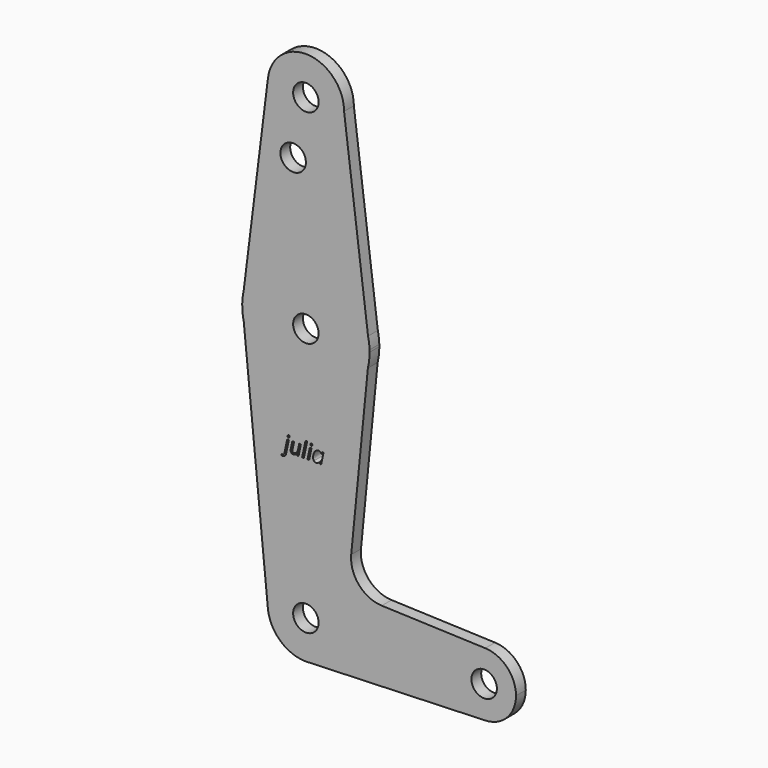
from build123d import *

# Parameters (mm, degrees)
F0_R     = 3.175
F1_DEPTH = 3.048
F2_DEPTH = 3.048


with BuildPart() as f1:
    # F0 (on Front) → F1 (new body)
    with BuildSketch(Plane.XZ):
        with BuildLine():
            ThreePointArc((-9.4520848782, 115.4749578639), (-0.5892862359, 104.7918893431), (9.525, 114.2986430863))
            ThreePointArc((9.525, 114.2986430863), (0.5892862359, 123.8053968294), (-9.4520848782, 115.4749578639))
        make_face()
        with Locations((0, 114.2986430863)):
            Circle(F0_R, mode=Mode.SUBTRACT)
        with BuildLine():
            Line((15.5005772781, 66.9261391177), (9.525, 114.2986430863))
            ThreePointArc((9.525, 114.2986430863), (-0.5892862359, 104.7918893431), (-9.4520848782, 115.4749578639))
            Line((-9.4520848782, 115.4749578639), (-15.4857249729, 66.9926303591))
            ThreePointArc((-15.4857249729, 66.9926303591), (0.0340649239, 79.3736065376), (15.5005772781, 66.9261391177))
        make_face()
        with Locations((-3.175, 100.0238430863)):
            Circle(F0_R, mode=Mode.SUBTRACT)
        with BuildLine():
            Line((15.8661798911, 64.0277561788), (15.5005772781, 66.9261391177))
            ThreePointArc((15.5005772781, 66.9261391177), (0.0340649239, 79.3736065376), (-15.4857249729, 66.9926303591))
            Line((-15.4857249729, 66.9926303591), (-15.8697507468, 63.9068541036))
            Line((-15.8697507468, 63.9068541036), (-15.484392146, 59.9987538209))
            ThreePointArc((-15.484392146, 59.9987538209), (-0.0559732082, 47.6237417637), (15.4593269838, 59.8896495689))
            Line((15.4593269838, 59.8896495689), (15.8661798911, 64.0277561788))
        make_face()
        with Locations((0, 63.4986430863)):
            Circle(F0_R, mode=Mode.SUBTRACT)
        with BuildLine():
            ThreePointArc((15.8661798911, 64.0277561788), (15.7501911018, 65.4853753927), (15.5005772781, 66.9261391177))
            Line((15.5005772781, 66.9261391177), (15.8661798911, 64.0277561788))
        make_face()
        with BuildLine():
            Line((-15.8697507468, 63.9068541036), (-15.4857249729, 66.9926303591))
            ThreePointArc((-15.4857249729, 66.9926303591), (-15.7534747969, 65.4591677157), (-15.8697507468, 63.9068541036))
        make_face()
        with BuildLine():
            ThreePointArc((15.875, 63.4986430863), (15.8727948196, 63.7632363869), (15.8661798911, 64.0277561788))
            Line((15.8661798911, 64.0277561788), (15.4593269838, 59.8896495689))
            ThreePointArc((15.4593269838, 59.8896495689), (15.770739375, 61.682216769), (15.875, 63.4986430863))
        make_face()
        with BuildLine():
            Line((-15.484392146, 59.9987538209), (-15.8697507468, 63.9068541036))
            ThreePointArc((-15.8697507468, 63.9068541036), (-15.7983822301, 61.9408421008), (-15.484392146, 59.9987538209))
        make_face()
        with BuildLine():
            Line((11.3012341919, 17.597629629), (15.4593269838, 59.8896495689))
            ThreePointArc((15.4593269838, 59.8896495689), (-0.0559732082, 47.6237417637), (-15.484392146, 59.9987538209))
            Line((-15.484392146, 59.9987538209), (-9.4997976526, -0.6937943191))
            ThreePointArc((-9.4997976526, -0.6937943191), (-0.3464479466, 9.5173404142), (9.525, -0.0013569137))
            ThreePointArc((9.525, -0.0013569137), (6.9705567315, -6.492656002), (0.6773435479, -9.5022426997))
            Line((0.6773435479, -9.5022426997), (44.7324052746, -7.9338315283))
            ThreePointArc((44.7324052746, -7.9338315283), (36.5125009184, 0.0024613389), (44.7400368134, 7.9308423334))
            Line((44.7400368134, 7.9308423334), (18.9227841733, 8.8748369877))
            ThreePointArc((18.9227841733, 8.8748369877), (13.2264460157, 11.5887203488), (11.3012341919, 17.597629629))
        make_face()
        with BuildLine():
            add(Edge.make_bspline(
                [(-5.2078049347, 33.8977516229), (-5.4072458297, 33.6958735683), (-5.7500729486, 33.6958735683)],
                knots=[0, 0, 0, 1, 1, 1], degree=2))
            add(Edge.make_bspline(
                [(-5.7500729486, 33.6958735683), (-5.9255484408, 33.6958735683), (-6.0620293791, 33.7494910798)],
                knots=[0, 0, 0, 1, 1, 1], degree=2))
            Line((-6.0620293791, 33.7494910798), (-6.0620293791, 34.1077535429))
            add(Edge.make_bspline(
                [(-6.0620293791, 34.1077535429), (-5.9076759369, 34.0516988718), (-5.7598215871, 34.0516988718)],
                knots=[0, 0, 0, 1, 1, 1], degree=2))
            add(Edge.make_bspline(
                [(-5.7598215871, 34.0516988718), (-5.4429908374, 34.0516988718), (-5.3333186548, 34.5724386425)],
                knots=[0, 0, 0, 1, 1, 1], degree=2))
            Line((-5.3333186548, 34.5724386425), (-4.6630997612, 37.7277479549))
            Line((-4.6630997612, 37.7277479549), (-4.2422835346, 37.7277479549))
            Line((-4.2422835346, 37.7277479549), (-4.9173767475, 34.5342564752))
            add(Edge.make_bspline(
                [(-4.9173767475, 34.5342564752), (-5.0083640397, 34.0996296776), (-5.2078049347, 33.8977516229)],
                knots=[0, 0, 0, 1, 1, 1], degree=2))
        make_face(mode=Mode.SUBTRACT)
        with BuildLine():
            add(Edge.make_bspline(
                [(-4.4778756306, 38.2618921034), (-4.5436789401, 38.3240396736), (-4.5436789401, 38.4385861754)],
                knots=[0, 0, 0, 1, 1, 1], degree=2))
            add(Edge.make_bspline(
                [(-4.5436789401, 38.4385861754), (-4.5436789401, 38.5807538195), (-4.4624402864, 38.6709287252)],
                knots=[0, 0, 0, 1, 1, 1], degree=2))
            add(Edge.make_bspline(
                [(-4.4624402864, 38.6709287252), (-4.3812016326, 38.7611036309), (-4.2520321731, 38.7611036309)],
                knots=[0, 0, 0, 1, 1, 1], degree=2))
            add(Edge.make_bspline(
                [(-4.2520321731, 38.7611036309), (-4.0335001945, 38.7611036309), (-4.0335001945, 38.5328230138)],
                knots=[0, 0, 0, 1, 1, 1], degree=2))
            add(Edge.make_bspline(
                [(-4.0335001945, 38.5328230138), (-4.0335001945, 38.3930925293), (-4.1188007809, 38.2964185313)],
                knots=[0, 0, 0, 1, 1, 1], degree=2))
            add(Edge.make_bspline(
                [(-4.1188007809, 38.2964185313), (-4.2041013674, 38.1997445333), (-4.315398323, 38.1997445333)],
                knots=[0, 0, 0, 1, 1, 1], degree=2))
            add(Edge.make_bspline(
                [(-4.315398323, 38.1997445333), (-4.412072321, 38.1997445333), (-4.4778756306, 38.2618921034)],
                knots=[0, 0, 0, 1, 1, 1], degree=2))
        make_face(mode=Mode.SUBTRACT)
        with BuildLine():
            Line((-3.3738423259, 37.7277479549), (-2.9424650743, 37.7277479549))
            Line((-2.9424650743, 37.7277479549), (-3.322661974, 35.963244395))
            add(Edge.make_bspline(
                [(-3.322661974, 35.963244395), (-3.3689680066, 35.7374009376), (-3.3689680066, 35.6106686377)],
                knots=[0, 0, 0, 1, 1, 1], degree=2))
            add(Edge.make_bspline(
                [(-3.3689680066, 35.6106686377), (-3.3689680066, 35.2475318553), (-2.9952701993, 35.2475318553)],
                knots=[0, 0, 0, 1, 1, 1], degree=2))
            add(Edge.make_bspline(
                [(-2.9952701993, 35.2475318553), (-2.7718639014, 35.2475318553), (-2.5561752757, 35.3998543311)],
                knots=[0, 0, 0, 1, 1, 1], degree=2))
            add(Edge.make_bspline(
                [(-2.5561752757, 35.3998543311), (-2.3404866499, 35.552176807), (-2.1755721828, 35.8365120952)],
                knots=[0, 0, 0, 1, 1, 1], degree=2))
            add(Edge.make_bspline(
                [(-2.1755721828, 35.8365120952), (-2.0106577156, 36.1208473833), (-1.9237323561, 36.522166333)],
                knots=[0, 0, 0, 1, 1, 1], degree=2))
            Line((-1.9237323561, 36.522166333), (-1.6702677563, 37.7277479549))
            Line((-1.6702677563, 37.7277479549), (-1.2486391432, 37.7277479549))
            Line((-1.2486391432, 37.7277479549), (-1.8351822235, 34.9453240633))
            Line((-1.8351822235, 34.9453240633), (-2.1877579808, 34.9453240633))
            Line((-2.1877579808, 34.9453240633), (-2.1325156963, 35.4603771282))
            Line((-2.1325156963, 35.4603771282), (-2.1625739981, 35.4603771282))
            add(Edge.make_bspline(
                [(-2.1625739981, 35.4603771282), (-2.4111642787, 35.1435463785), (-2.6374139294, 35.018845045)],
                knots=[0, 0, 0, 1, 1, 1], degree=2))
            add(Edge.make_bspline(
                [(-2.6374139294, 35.018845045), (-2.8636635802, 34.8941437114), (-3.1049423819, 34.8941437114)],
                knots=[0, 0, 0, 1, 1, 1], degree=2))
            add(Edge.make_bspline(
                [(-3.1049423819, 34.8941437114), (-3.429896997, 34.8941437114), (-3.6151211275, 35.0708377834)],
                knots=[0, 0, 0, 1, 1, 1], degree=2))
            add(Edge.make_bspline(
                [(-3.6151211275, 35.0708377834), (-3.8003452581, 35.2475318553), (-3.8003452581, 35.57492363)],
                knots=[0, 0, 0, 1, 1, 1], degree=2))
            add(Edge.make_bspline(
                [(-3.8003452581, 35.57492363), (-3.8003452581, 35.7325266183), (-3.744290587, 36.0119875873)],
                knots=[0, 0, 0, 1, 1, 1], degree=2))
            Line((-3.744290587, 36.0119875873), (-3.3738423259, 37.7277479549))
        make_face(mode=Mode.SUBTRACT)
        Polygon((0.3282031264, 38.8959597961), (-0.5150540997, 34.9453240633), (-0.941557032, 34.9453240633), (-0.0982998059, 38.8959597961), align=None, mode=Mode.SUBTRACT)
        Polygon((1.4046152889, 37.7277479549), (0.8099483433, 34.9453240633), (0.383445411, 34.9453240633), (0.9781123566, 37.7277479549), align=None, mode=Mode.SUBTRACT)
        with BuildLine():
            add(Edge.make_bspline(
                [(2.480621258, 37.5222141609), (2.797858201, 37.7789283068), (3.1764303276, 37.7789283068)],
                knots=[0, 0, 0, 1, 1, 1], degree=2))
            add(Edge.make_bspline(
                [(3.1764303276, 37.7789283068), (3.4095852639, 37.7789283068), (3.5923722349, 37.6530083934)],
                knots=[0, 0, 0, 1, 1, 1], degree=2))
            add(Edge.make_bspline(
                [(3.5923722349, 37.6530083934), (3.7751592059, 37.5270884801), (3.8767075231, 37.2914963842)],
                knots=[0, 0, 0, 1, 1, 1], degree=2))
            Line((3.8767075231, 37.2914963842), (3.9051410519, 37.2914963842))
            Line((3.9051410519, 37.2914963842), (4.0749298383, 37.7277479549))
            Line((4.0749298383, 37.7277479549), (4.3974472937, 37.7277479549))
            Line((4.3974472937, 37.7277479549), (3.8060298943, 34.9453240633))
            Line((3.8060298943, 34.9453240633), (3.4680770946, 34.9453240633))
            Line((3.4680770946, 34.9453240633), (3.5346927907, 35.4758124724))
            Line((3.5346927907, 35.4758124724), (3.5143831273, 35.4758124724))
            add(Edge.make_bspline(
                [(3.5143831273, 35.4758124724), (3.0594466662, 34.8941437114), (2.5565793993, 34.8941437114)],
                knots=[0, 0, 0, 1, 1, 1], degree=2))
            add(Edge.make_bspline(
                [(2.5565793993, 34.8941437114), (2.204003642, 34.8941437114), (2.0033441672, 35.1455773448)],
                knots=[0, 0, 0, 1, 1, 1], degree=2))
            add(Edge.make_bspline(
                [(2.0033441672, 35.1455773448), (1.8026846923, 35.3970109783), (1.8026846923, 35.8340749355)],
                knots=[0, 0, 0, 1, 1, 1], degree=2))
            add(Edge.make_bspline(
                [(1.8026846923, 35.8340749355), (1.8026846923, 36.362126185), (1.9830345037, 36.8138131)],
                knots=[0, 0, 0, 1, 1, 1], degree=2))
            add(Edge.make_bspline(
                [(1.9830345037, 36.8138131), (2.1633843151, 37.265500015), (2.480621258, 37.5222141609)],
                knots=[0, 0, 0, 1, 1, 1], degree=2))
        make_face(mode=Mode.SUBTRACT)
        with BuildLine():
            add(Edge.make_bspline(
                [(1.1633364872, 38.2618921034), (1.0975331776, 38.3240396736), (1.0975331776, 38.4385861754)],
                knots=[0, 0, 0, 1, 1, 1], degree=2))
            add(Edge.make_bspline(
                [(1.0975331776, 38.4385861754), (1.0975331776, 38.5807538195), (1.1787718314, 38.6709287252)],
                knots=[0, 0, 0, 1, 1, 1], degree=2))
            add(Edge.make_bspline(
                [(1.1787718314, 38.6709287252), (1.2600104852, 38.7611036309), (1.3891799447, 38.7611036309)],
                knots=[0, 0, 0, 1, 1, 1], degree=2))
            add(Edge.make_bspline(
                [(1.3891799447, 38.7611036309), (1.6125862425, 38.7611036309), (1.6125862425, 38.5328230138)],
                knots=[0, 0, 0, 1, 1, 1], degree=2))
            add(Edge.make_bspline(
                [(1.6125862425, 38.5328230138), (1.6125862425, 38.3930925293), (1.5276918493, 38.2964185313)],
                knots=[0, 0, 0, 1, 1, 1], degree=2))
            add(Edge.make_bspline(
                [(1.5276918493, 38.2964185313), (1.4427974561, 38.1997445333), (1.3306881139, 38.1997445333)],
                knots=[0, 0, 0, 1, 1, 1], degree=2))
            add(Edge.make_bspline(
                [(1.3306881139, 38.1997445333), (1.2291397967, 38.1997445333), (1.1633364872, 38.2618921034)],
                knots=[0, 0, 0, 1, 1, 1], degree=2))
        make_face(mode=Mode.SUBTRACT)
        with BuildLine():
            Line((-9.4520848782, -1.1776716914), (-9.4997976526, -0.6937943191))
            ThreePointArc((-9.4997976526, -0.6937943191), (-9.4790293381, -0.936037505), (-9.4520848782, -1.1776716914))
        make_face()
        with BuildLine():
            ThreePointArc((9.525, -0.0013569137), (-0.3464479466, 9.5173404142), (-9.4997976526, -0.6937943191))
            Line((-9.4997976526, -0.6937943191), (-9.4520848782, -1.1776716914))
            ThreePointArc((-9.4520848782, -1.1776716914), (-6.3056017454, -7.140335246), (0, -9.5263569137))
            Line((0, -9.5263569137), (0.6773435479, -9.5022426997))
            ThreePointArc((0.6773435479, -9.5022426997), (6.9705567315, -6.492656002), (9.525, -0.0013569137))
        make_face()
        with Locations((0, -0.0013569137)):
            Circle(F0_R, mode=Mode.SUBTRACT)
        with BuildLine():
            ThreePointArc((52.3875, -0.0013569137), (50.1642835709, 5.5078054111), (44.7400368134, 7.9308423334))
            ThreePointArc((44.7400368134, 7.9308423334), (36.5125009184, 0.0024613389), (44.7324052746, -7.9338315283))
            ThreePointArc((44.7324052746, -7.9338315283), (50.1616327839, -5.5132673985), (52.3875, -0.0013569137))
        make_face()
        with Locations((44.45, -0.0013569137)):
            Circle(F0_R, mode=Mode.SUBTRACT)
        with BuildLine():
            ThreePointArc((0, -9.5263569137), (0.3388863295, -9.5203264512), (0.6773435479, -9.5022426997))
            Line((0.6773435479, -9.5022426997), (0, -9.5263569137))
        make_face()
    extrude(amount=F1_DEPTH)

    # F0 (on Front) → F2 (join)
    with BuildSketch(Plane.XZ):
        with BuildLine():
            ThreePointArc((-9.4520848782, 115.4749578639), (-0.5892862359, 104.7918893431), (9.525, 114.2986430863))
            ThreePointArc((9.525, 114.2986430863), (0.5892862359, 123.8053968294), (-9.4520848782, 115.4749578639))
        make_face()
        with Locations((0, 114.2986430863)):
            Circle(F0_R, mode=Mode.SUBTRACT)
        with BuildLine():
            Line((15.5005772781, 66.9261391177), (9.525, 114.2986430863))
            ThreePointArc((9.525, 114.2986430863), (-0.5892862359, 104.7918893431), (-9.4520848782, 115.4749578639))
            Line((-9.4520848782, 115.4749578639), (-15.4857249729, 66.9926303591))
            ThreePointArc((-15.4857249729, 66.9926303591), (0.0340649239, 79.3736065376), (15.5005772781, 66.9261391177))
        make_face()
        with Locations((-3.175, 100.0238430863)):
            Circle(F0_R, mode=Mode.SUBTRACT)
        with BuildLine():
            Line((15.8661798911, 64.0277561788), (15.5005772781, 66.9261391177))
            ThreePointArc((15.5005772781, 66.9261391177), (0.0340649239, 79.3736065376), (-15.4857249729, 66.9926303591))
            Line((-15.4857249729, 66.9926303591), (-15.8697507468, 63.9068541036))
            Line((-15.8697507468, 63.9068541036), (-15.484392146, 59.9987538209))
            ThreePointArc((-15.484392146, 59.9987538209), (-0.0559732082, 47.6237417637), (15.4593269838, 59.8896495689))
            Line((15.4593269838, 59.8896495689), (15.8661798911, 64.0277561788))
        make_face()
        with Locations((0, 63.4986430863)):
            Circle(F0_R, mode=Mode.SUBTRACT)
        with BuildLine():
            ThreePointArc((15.8661798911, 64.0277561788), (15.7501911018, 65.4853753927), (15.5005772781, 66.9261391177))
            Line((15.5005772781, 66.9261391177), (15.8661798911, 64.0277561788))
        make_face()
        with BuildLine():
            Line((-15.8697507468, 63.9068541036), (-15.4857249729, 66.9926303591))
            ThreePointArc((-15.4857249729, 66.9926303591), (-15.7534747969, 65.4591677157), (-15.8697507468, 63.9068541036))
        make_face()
        with BuildLine():
            ThreePointArc((15.875, 63.4986430863), (15.8727948196, 63.7632363869), (15.8661798911, 64.0277561788))
            Line((15.8661798911, 64.0277561788), (15.4593269838, 59.8896495689))
            ThreePointArc((15.4593269838, 59.8896495689), (15.770739375, 61.682216769), (15.875, 63.4986430863))
        make_face()
        with BuildLine():
            Line((-15.484392146, 59.9987538209), (-15.8697507468, 63.9068541036))
            ThreePointArc((-15.8697507468, 63.9068541036), (-15.7983822301, 61.9408421008), (-15.484392146, 59.9987538209))
        make_face()
        with BuildLine():
            Line((11.3012341919, 17.597629629), (15.4593269838, 59.8896495689))
            ThreePointArc((15.4593269838, 59.8896495689), (-0.0559732082, 47.6237417637), (-15.484392146, 59.9987538209))
            Line((-15.484392146, 59.9987538209), (-9.4997976526, -0.6937943191))
            ThreePointArc((-9.4997976526, -0.6937943191), (-0.3464479466, 9.5173404142), (9.525, -0.0013569137))
            ThreePointArc((9.525, -0.0013569137), (6.9705567315, -6.492656002), (0.6773435479, -9.5022426997))
            Line((0.6773435479, -9.5022426997), (44.7324052746, -7.9338315283))
            ThreePointArc((44.7324052746, -7.9338315283), (36.5125009184, 0.0024613389), (44.7400368134, 7.9308423334))
            Line((44.7400368134, 7.9308423334), (18.9227841733, 8.8748369877))
            ThreePointArc((18.9227841733, 8.8748369877), (13.2264460157, 11.5887203488), (11.3012341919, 17.597629629))
        make_face()
        with BuildLine():
            add(Edge.make_bspline(
                [(-5.2078049347, 33.8977516229), (-5.4072458297, 33.6958735683), (-5.7500729486, 33.6958735683)],
                knots=[0, 0, 0, 1, 1, 1], degree=2))
            add(Edge.make_bspline(
                [(-5.7500729486, 33.6958735683), (-5.9255484408, 33.6958735683), (-6.0620293791, 33.7494910798)],
                knots=[0, 0, 0, 1, 1, 1], degree=2))
            Line((-6.0620293791, 33.7494910798), (-6.0620293791, 34.1077535429))
            add(Edge.make_bspline(
                [(-6.0620293791, 34.1077535429), (-5.9076759369, 34.0516988718), (-5.7598215871, 34.0516988718)],
                knots=[0, 0, 0, 1, 1, 1], degree=2))
            add(Edge.make_bspline(
                [(-5.7598215871, 34.0516988718), (-5.4429908374, 34.0516988718), (-5.3333186548, 34.5724386425)],
                knots=[0, 0, 0, 1, 1, 1], degree=2))
            Line((-5.3333186548, 34.5724386425), (-4.6630997612, 37.7277479549))
            Line((-4.6630997612, 37.7277479549), (-4.2422835346, 37.7277479549))
            Line((-4.2422835346, 37.7277479549), (-4.9173767475, 34.5342564752))
            add(Edge.make_bspline(
                [(-4.9173767475, 34.5342564752), (-5.0083640397, 34.0996296776), (-5.2078049347, 33.8977516229)],
                knots=[0, 0, 0, 1, 1, 1], degree=2))
        make_face(mode=Mode.SUBTRACT)
        with BuildLine():
            add(Edge.make_bspline(
                [(-4.4778756306, 38.2618921034), (-4.5436789401, 38.3240396736), (-4.5436789401, 38.4385861754)],
                knots=[0, 0, 0, 1, 1, 1], degree=2))
            add(Edge.make_bspline(
                [(-4.5436789401, 38.4385861754), (-4.5436789401, 38.5807538195), (-4.4624402864, 38.6709287252)],
                knots=[0, 0, 0, 1, 1, 1], degree=2))
            add(Edge.make_bspline(
                [(-4.4624402864, 38.6709287252), (-4.3812016326, 38.7611036309), (-4.2520321731, 38.7611036309)],
                knots=[0, 0, 0, 1, 1, 1], degree=2))
            add(Edge.make_bspline(
                [(-4.2520321731, 38.7611036309), (-4.0335001945, 38.7611036309), (-4.0335001945, 38.5328230138)],
                knots=[0, 0, 0, 1, 1, 1], degree=2))
            add(Edge.make_bspline(
                [(-4.0335001945, 38.5328230138), (-4.0335001945, 38.3930925293), (-4.1188007809, 38.2964185313)],
                knots=[0, 0, 0, 1, 1, 1], degree=2))
            add(Edge.make_bspline(
                [(-4.1188007809, 38.2964185313), (-4.2041013674, 38.1997445333), (-4.315398323, 38.1997445333)],
                knots=[0, 0, 0, 1, 1, 1], degree=2))
            add(Edge.make_bspline(
                [(-4.315398323, 38.1997445333), (-4.412072321, 38.1997445333), (-4.4778756306, 38.2618921034)],
                knots=[0, 0, 0, 1, 1, 1], degree=2))
        make_face(mode=Mode.SUBTRACT)
        with BuildLine():
            Line((-3.3738423259, 37.7277479549), (-2.9424650743, 37.7277479549))
            Line((-2.9424650743, 37.7277479549), (-3.322661974, 35.963244395))
            add(Edge.make_bspline(
                [(-3.322661974, 35.963244395), (-3.3689680066, 35.7374009376), (-3.3689680066, 35.6106686377)],
                knots=[0, 0, 0, 1, 1, 1], degree=2))
            add(Edge.make_bspline(
                [(-3.3689680066, 35.6106686377), (-3.3689680066, 35.2475318553), (-2.9952701993, 35.2475318553)],
                knots=[0, 0, 0, 1, 1, 1], degree=2))
            add(Edge.make_bspline(
                [(-2.9952701993, 35.2475318553), (-2.7718639014, 35.2475318553), (-2.5561752757, 35.3998543311)],
                knots=[0, 0, 0, 1, 1, 1], degree=2))
            add(Edge.make_bspline(
                [(-2.5561752757, 35.3998543311), (-2.3404866499, 35.552176807), (-2.1755721828, 35.8365120952)],
                knots=[0, 0, 0, 1, 1, 1], degree=2))
            add(Edge.make_bspline(
                [(-2.1755721828, 35.8365120952), (-2.0106577156, 36.1208473833), (-1.9237323561, 36.522166333)],
                knots=[0, 0, 0, 1, 1, 1], degree=2))
            Line((-1.9237323561, 36.522166333), (-1.6702677563, 37.7277479549))
            Line((-1.6702677563, 37.7277479549), (-1.2486391432, 37.7277479549))
            Line((-1.2486391432, 37.7277479549), (-1.8351822235, 34.9453240633))
            Line((-1.8351822235, 34.9453240633), (-2.1877579808, 34.9453240633))
            Line((-2.1877579808, 34.9453240633), (-2.1325156963, 35.4603771282))
            Line((-2.1325156963, 35.4603771282), (-2.1625739981, 35.4603771282))
            add(Edge.make_bspline(
                [(-2.1625739981, 35.4603771282), (-2.4111642787, 35.1435463785), (-2.6374139294, 35.018845045)],
                knots=[0, 0, 0, 1, 1, 1], degree=2))
            add(Edge.make_bspline(
                [(-2.6374139294, 35.018845045), (-2.8636635802, 34.8941437114), (-3.1049423819, 34.8941437114)],
                knots=[0, 0, 0, 1, 1, 1], degree=2))
            add(Edge.make_bspline(
                [(-3.1049423819, 34.8941437114), (-3.429896997, 34.8941437114), (-3.6151211275, 35.0708377834)],
                knots=[0, 0, 0, 1, 1, 1], degree=2))
            add(Edge.make_bspline(
                [(-3.6151211275, 35.0708377834), (-3.8003452581, 35.2475318553), (-3.8003452581, 35.57492363)],
                knots=[0, 0, 0, 1, 1, 1], degree=2))
            add(Edge.make_bspline(
                [(-3.8003452581, 35.57492363), (-3.8003452581, 35.7325266183), (-3.744290587, 36.0119875873)],
                knots=[0, 0, 0, 1, 1, 1], degree=2))
            Line((-3.744290587, 36.0119875873), (-3.3738423259, 37.7277479549))
        make_face(mode=Mode.SUBTRACT)
        Polygon((0.3282031264, 38.8959597961), (-0.5150540997, 34.9453240633), (-0.941557032, 34.9453240633), (-0.0982998059, 38.8959597961), align=None, mode=Mode.SUBTRACT)
        Polygon((1.4046152889, 37.7277479549), (0.8099483433, 34.9453240633), (0.383445411, 34.9453240633), (0.9781123566, 37.7277479549), align=None, mode=Mode.SUBTRACT)
        with BuildLine():
            add(Edge.make_bspline(
                [(2.480621258, 37.5222141609), (2.797858201, 37.7789283068), (3.1764303276, 37.7789283068)],
                knots=[0, 0, 0, 1, 1, 1], degree=2))
            add(Edge.make_bspline(
                [(3.1764303276, 37.7789283068), (3.4095852639, 37.7789283068), (3.5923722349, 37.6530083934)],
                knots=[0, 0, 0, 1, 1, 1], degree=2))
            add(Edge.make_bspline(
                [(3.5923722349, 37.6530083934), (3.7751592059, 37.5270884801), (3.8767075231, 37.2914963842)],
                knots=[0, 0, 0, 1, 1, 1], degree=2))
            Line((3.8767075231, 37.2914963842), (3.9051410519, 37.2914963842))
            Line((3.9051410519, 37.2914963842), (4.0749298383, 37.7277479549))
            Line((4.0749298383, 37.7277479549), (4.3974472937, 37.7277479549))
            Line((4.3974472937, 37.7277479549), (3.8060298943, 34.9453240633))
            Line((3.8060298943, 34.9453240633), (3.4680770946, 34.9453240633))
            Line((3.4680770946, 34.9453240633), (3.5346927907, 35.4758124724))
            Line((3.5346927907, 35.4758124724), (3.5143831273, 35.4758124724))
            add(Edge.make_bspline(
                [(3.5143831273, 35.4758124724), (3.0594466662, 34.8941437114), (2.5565793993, 34.8941437114)],
                knots=[0, 0, 0, 1, 1, 1], degree=2))
            add(Edge.make_bspline(
                [(2.5565793993, 34.8941437114), (2.204003642, 34.8941437114), (2.0033441672, 35.1455773448)],
                knots=[0, 0, 0, 1, 1, 1], degree=2))
            add(Edge.make_bspline(
                [(2.0033441672, 35.1455773448), (1.8026846923, 35.3970109783), (1.8026846923, 35.8340749355)],
                knots=[0, 0, 0, 1, 1, 1], degree=2))
            add(Edge.make_bspline(
                [(1.8026846923, 35.8340749355), (1.8026846923, 36.362126185), (1.9830345037, 36.8138131)],
                knots=[0, 0, 0, 1, 1, 1], degree=2))
            add(Edge.make_bspline(
                [(1.9830345037, 36.8138131), (2.1633843151, 37.265500015), (2.480621258, 37.5222141609)],
                knots=[0, 0, 0, 1, 1, 1], degree=2))
        make_face(mode=Mode.SUBTRACT)
        with BuildLine():
            add(Edge.make_bspline(
                [(1.1633364872, 38.2618921034), (1.0975331776, 38.3240396736), (1.0975331776, 38.4385861754)],
                knots=[0, 0, 0, 1, 1, 1], degree=2))
            add(Edge.make_bspline(
                [(1.0975331776, 38.4385861754), (1.0975331776, 38.5807538195), (1.1787718314, 38.6709287252)],
                knots=[0, 0, 0, 1, 1, 1], degree=2))
            add(Edge.make_bspline(
                [(1.1787718314, 38.6709287252), (1.2600104852, 38.7611036309), (1.3891799447, 38.7611036309)],
                knots=[0, 0, 0, 1, 1, 1], degree=2))
            add(Edge.make_bspline(
                [(1.3891799447, 38.7611036309), (1.6125862425, 38.7611036309), (1.6125862425, 38.5328230138)],
                knots=[0, 0, 0, 1, 1, 1], degree=2))
            add(Edge.make_bspline(
                [(1.6125862425, 38.5328230138), (1.6125862425, 38.3930925293), (1.5276918493, 38.2964185313)],
                knots=[0, 0, 0, 1, 1, 1], degree=2))
            add(Edge.make_bspline(
                [(1.5276918493, 38.2964185313), (1.4427974561, 38.1997445333), (1.3306881139, 38.1997445333)],
                knots=[0, 0, 0, 1, 1, 1], degree=2))
            add(Edge.make_bspline(
                [(1.3306881139, 38.1997445333), (1.2291397967, 38.1997445333), (1.1633364872, 38.2618921034)],
                knots=[0, 0, 0, 1, 1, 1], degree=2))
        make_face(mode=Mode.SUBTRACT)
        with BuildLine():
            Line((-9.4520848782, -1.1776716914), (-9.4997976526, -0.6937943191))
            ThreePointArc((-9.4997976526, -0.6937943191), (-9.4790293381, -0.936037505), (-9.4520848782, -1.1776716914))
        make_face()
        with BuildLine():
            ThreePointArc((9.525, -0.0013569137), (-0.3464479466, 9.5173404142), (-9.4997976526, -0.6937943191))
            Line((-9.4997976526, -0.6937943191), (-9.4520848782, -1.1776716914))
            ThreePointArc((-9.4520848782, -1.1776716914), (-6.3056017454, -7.140335246), (0, -9.5263569137))
            Line((0, -9.5263569137), (0.6773435479, -9.5022426997))
            ThreePointArc((0.6773435479, -9.5022426997), (6.9705567315, -6.492656002), (9.525, -0.0013569137))
        make_face()
        with Locations((0, -0.0013569137)):
            Circle(F0_R, mode=Mode.SUBTRACT)
        with BuildLine():
            ThreePointArc((52.3875, -0.0013569137), (50.1642835709, 5.5078054111), (44.7400368134, 7.9308423334))
            ThreePointArc((44.7400368134, 7.9308423334), (36.5125009184, 0.0024613389), (44.7324052746, -7.9338315283))
            ThreePointArc((44.7324052746, -7.9338315283), (50.1616327839, -5.5132673985), (52.3875, -0.0013569137))
        make_face()
        with Locations((44.45, -0.0013569137)):
            Circle(F0_R, mode=Mode.SUBTRACT)
        with BuildLine():
            ThreePointArc((0, -9.5263569137), (0.3388863295, -9.5203264512), (0.6773435479, -9.5022426997))
            Line((0.6773435479, -9.5022426997), (0, -9.5263569137))
        make_face()
    extrude(amount=F2_DEPTH)


solid = f1.part
